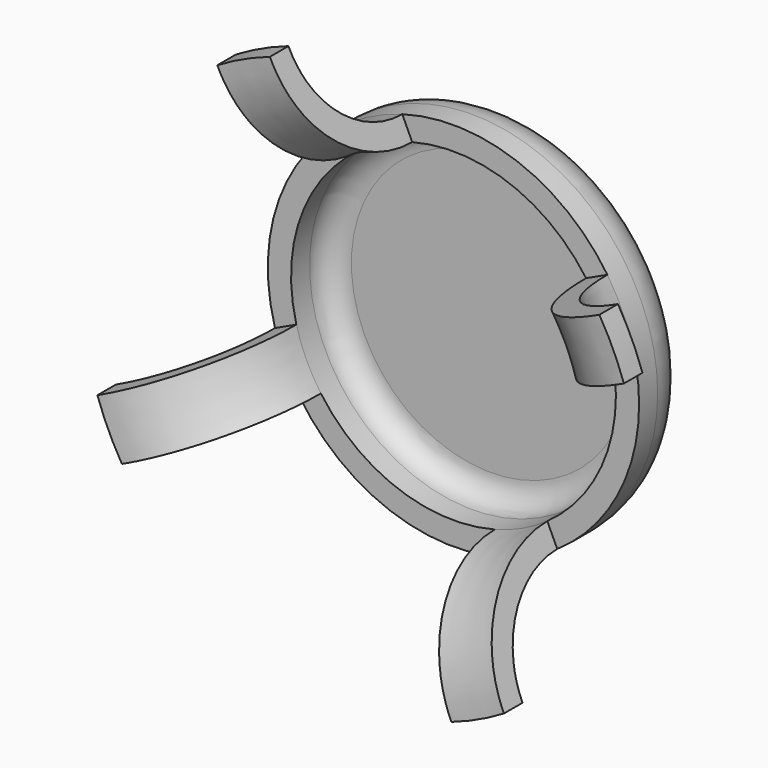
from build123d import *

# Parameters (mm, degrees)
POCKET002_DEPTH = 10
SKETCH006_R     = 4
POCKET003_DEPTH = 5


with BuildPart() as part:
    # Sketch004 → Revolution (revolve)
    with BuildSketch(Plane.XY):
        with BuildLine():
            ThreePointArc((15.999978, -20), (18.343131, -25.656862), (24, -28))
            Line((24, -30), (24, -28))
            ThreePointArc((13.999978, -20), (16.928918, -27.071076), (24, -30))
            Line((13.999978, -20), (13.999978, -18))
            ThreePointArc((13.999978, -18), (13.414191, -16.585786), (11.999978, -16))
            Line((11.999978, -16), (0, -16))
            Line((0, -16), (0, -14))
            Line((0, -14), (11.999978, -14))
            ThreePointArc((15.999978, -18), (14.828405, -15.171573), (11.999978, -14))
            Line((15.999978, -18), (15.999978, -20))
        make_face()
    revolve(axis=Axis((0, 0, 0), (0, 1, 0)))

    # Sketch005 (on DatumPlane) → Pocket002 (cut)
    with BuildSketch(Plane(origin=(0, -30, 0), x_dir=(0, 0, 1), z_dir=(0, -1, 0))):
        with BuildLine():
            ThreePointArc((12.353429, -20.576511), (22.552623, -8.208483), (22.689602, 7.82189))
            Line((22.689602, 7.82189), (3.322315, -1.209224))
            Line((3.322315, -1.209224), (12.353429, -20.576511))
        make_face()
        with BuildLine():
            ThreePointArc((20.576511, 12.353429), (8.208483, 22.552623), (-7.82189, 22.689602))
            Line((-7.82189, 22.689602), (1.209224, 3.322315))
            Line((20.576511, 12.353429), (1.209224, 3.322315))
        make_face()
        with BuildLine():
            ThreePointArc((-12.353429, 20.576511), (-22.552623, 8.208483), (-22.689602, -7.82189))
            Line((-22.689602, -7.82189), (-3.322315, 1.209224))
            Line((-3.322315, 1.209224), (-12.353429, 20.576511))
        make_face()
        with BuildLine():
            ThreePointArc((-20.576511, -12.353429), (-8.208483, -22.552623), (7.82189, -22.689602))
            Line((7.82189, -22.689602), (-1.209224, -3.322315))
            Line((-1.209224, -3.322315), (-20.576511, -12.353429))
        make_face()
    extrude(amount=-POCKET002_DEPTH, mode=Mode.SUBTRACT)

    # Sketch006 (on Face30 of Pocket002) → Pocket003 (cut)
    with BuildSketch(Plane.XZ.offset(16)):
        Circle(SKETCH006_R)
    extrude(amount=POCKET003_DEPTH, mode=Mode.SUBTRACT)


solid = part.part
